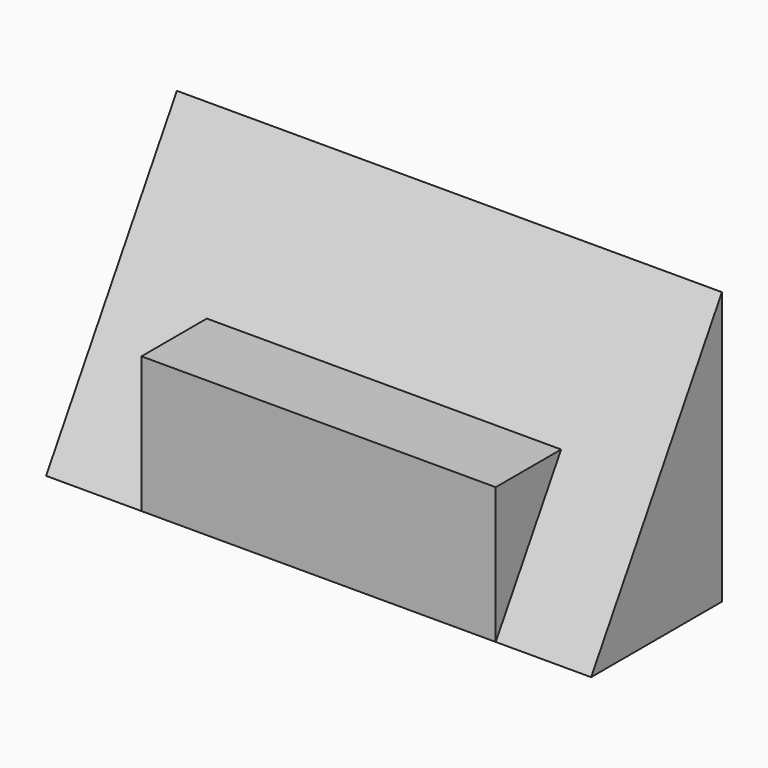
from build123d import *

# Parameters (mm, degrees)
F1_DEPTH = 127
F3_DEPTH = 22.225
F5_DEPTH = 22.225


with BuildPart() as f1:
    # F0 (on Right) → F1 (new body)
    with BuildSketch(Plane.YZ):
        Polygon((5.535459, -34.902961), (5.535459, -3.152961), (-13.514541, -3.152961), (-32.564541, -34.902961), align=None)
        Polygon((5.535459, -3.152961), (5.535459, 28.597039), (-13.514541, -3.152961), align=None)
        Polygon((-13.514541, -3.152961), (-32.564541, -3.152961), (-32.564541, -34.902961), align=None)
    extrude(amount=-F1_DEPTH)

    # F2 (on face) → F3 (cut)
    with BuildSketch(Plane(origin=(-127, 0, 0), x_dir=(0, -1, 0), z_dir=(-1, 0, 0))):
        Polygon((32.564541, -3.152961), (13.514541, -3.152961), (32.564541, -34.902961), align=None)
    extrude(amount=-F3_DEPTH, mode=Mode.SUBTRACT)

    # F4 (on face) → F5 (cut)
    with BuildSketch(Plane.YZ):
        Polygon((-32.564541, -34.902961), (-13.514541, -3.152961), (-32.564541, -3.152961), align=None)
    extrude(amount=-F5_DEPTH, mode=Mode.SUBTRACT)


solid = f1.part
